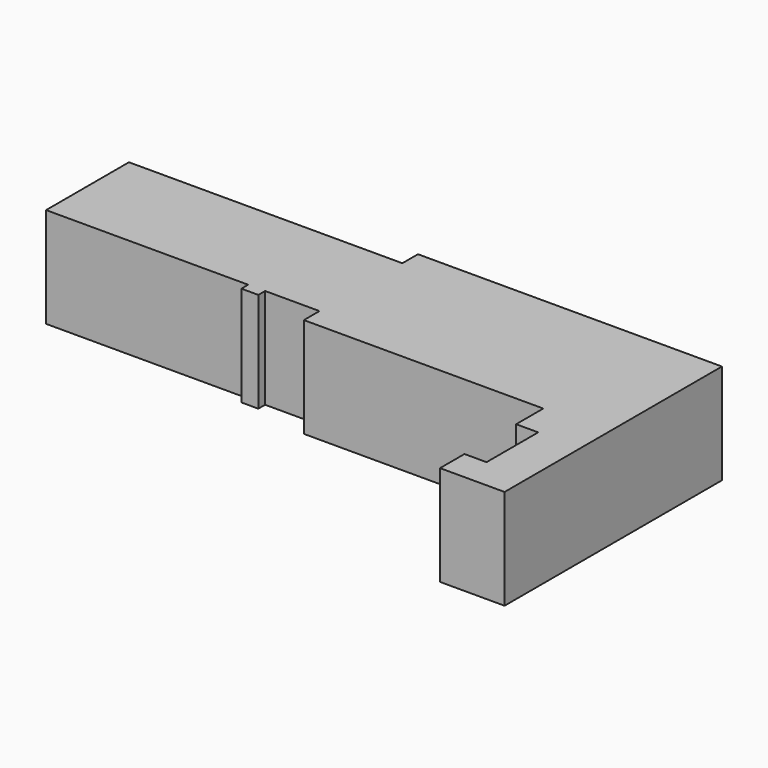
from build123d import *

# Parameters (mm, degrees)
F1_DEPTH = 5.9


with BuildPart() as f1:
    # F0 (on Top) → F1 (new body)
    with BuildSketch(Plane.XY):
        Polygon((17.9, 4.2), (0, 4.2), (0, 3.05), (-16.1, 3.05), (-16.1, -3.05), (-4.2, -3.05), (-4.2, -3.55), (-3.2, -3.55), (-3.2, -3.05), (0, -3.05), (0, -4.2), (14.1, -4.2), (14.1, -6.2), (15.4, -6.2), (15.4, -10), (14.1, -10), (14.1, -11.8), (17.9, -11.8), align=None)
    extrude(amount=F1_DEPTH)


solid = f1.part
